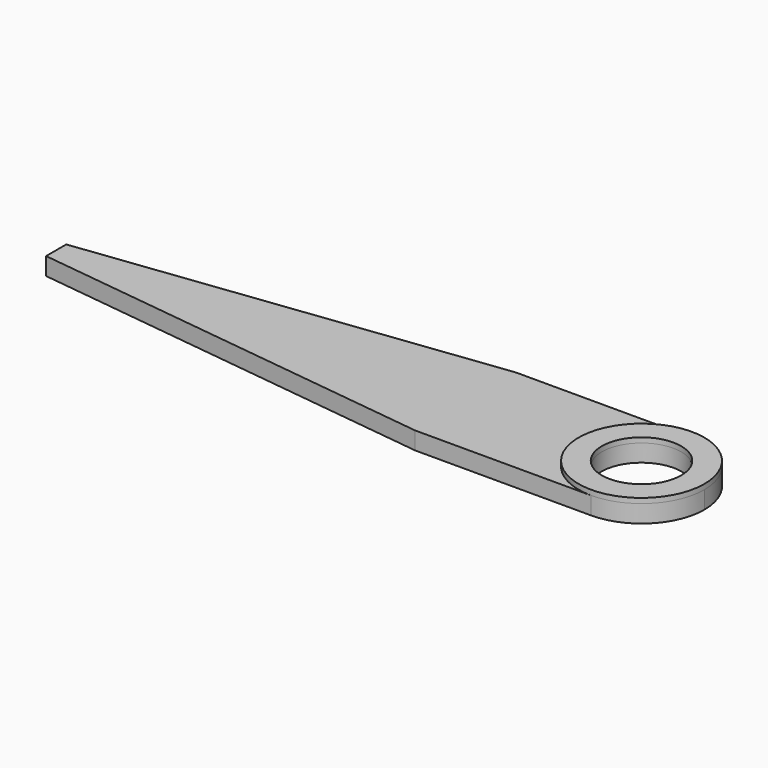
from build123d import *

# Parameters (mm, degrees)
F0_R     = 8
F1_DEPTH = 3.5
F2_R     = 12.5
F2_R_2   = 7.887929
F3_DEPTH = 1


with BuildPart() as f1:
    # F0 (on Top) → F1 (new body)
    with BuildSketch(Plane.XY):
        with BuildLine():
            ThreePointArc((0, -12.5), (-12.5, 0), (0, 12.5))
            Line((0, 12.5), (-35, 12.5))
            Line((-35, 12.5), (-116.388784, 2.506714))
            Line((-116.388784, 2.506714), (-116.388784, -2.506714))
            Line((-116.388784, -2.506714), (-35, -12.5))
            Line((-35, -12.5), (0, -12.5))
        make_face()
        with BuildLine():
            ThreePointArc((0, -12.5), (8.838835, -8.838835), (12.5, 0))
            ThreePointArc((12.5, 0), (8.838835, 8.838835), (0, 12.5))
            ThreePointArc((0, 12.5), (-12.5, 0), (0, -12.5))
        make_face()
        Circle(F0_R, mode=Mode.SUBTRACT)
    extrude(amount=F1_DEPTH)

    # F2 (on face) → F3 (join)
    with BuildSketch(Plane.XY.offset(3.5)):
        Circle(F2_R)
        Circle(F2_R_2, mode=Mode.SUBTRACT)
    extrude(amount=F3_DEPTH)


solid = f1.part
